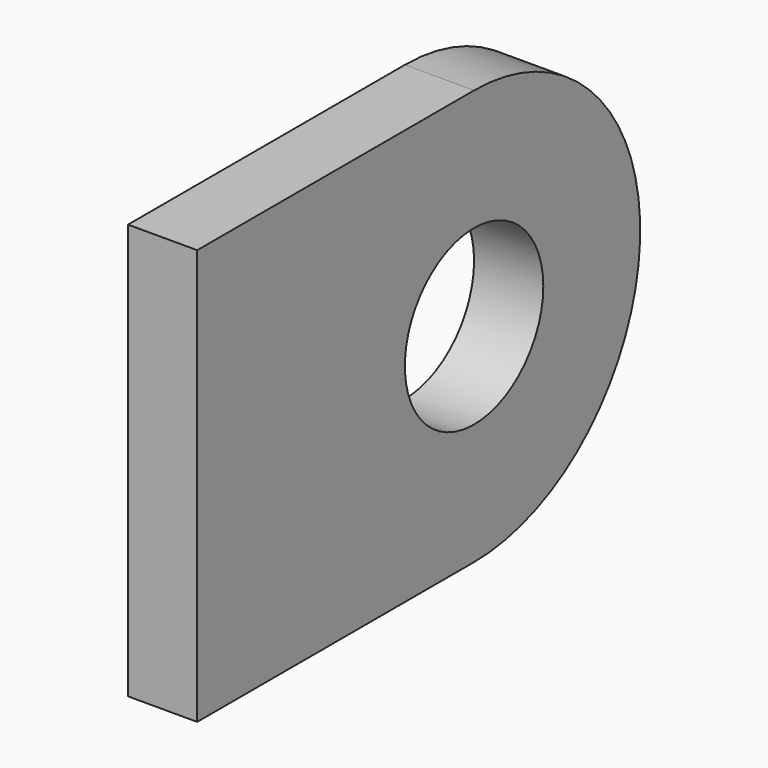
from build123d import *

# Parameters (mm, degrees)
F0_R     = 3.175
F1_DEPTH = 2.54


with BuildPart() as f1:
    # F0 (on Right) → F1 (new body)
    with BuildSketch(Plane.YZ):
        with BuildLine():
            Line((0, 15.24), (0, 0))
            Line((0, 0), (12.7, 0))
            ThreePointArc((12.7, 0), (20.32, 7.62), (12.7, 15.24))
            Line((12.7, 15.24), (0, 15.24))
        make_face()
        with Locations((12.7, 7.62)):
            Circle(F0_R, mode=Mode.SUBTRACT)
    extrude(amount=-F1_DEPTH)


solid = f1.part
